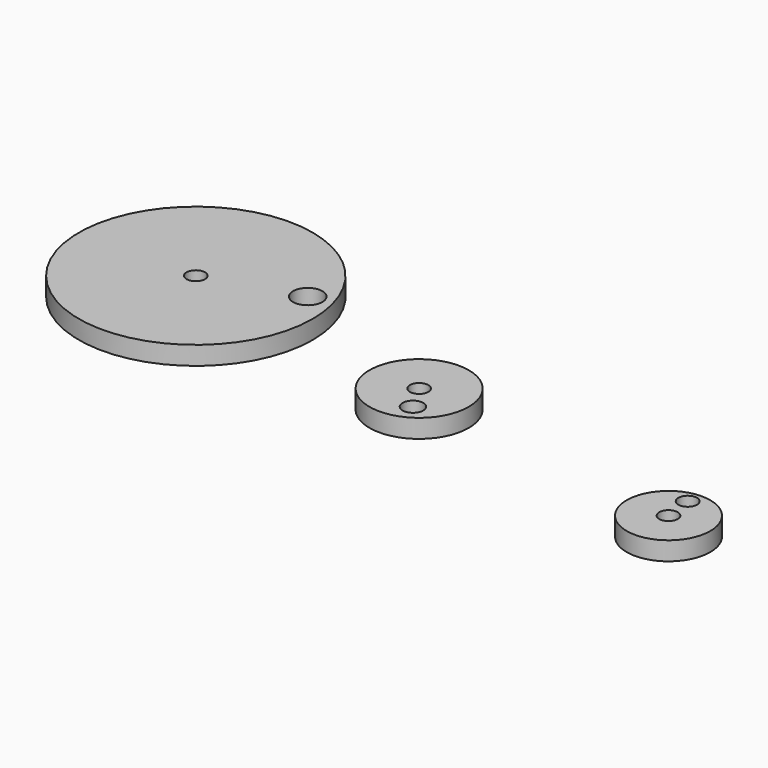
from build123d import *

# Parameters (mm, degrees)
F0_R     = 8.4963
F0_R_2   = 1.769141
F0_R_3   = 1.5875
F0_R_4   = 20.0025
F0_R_5   = 2.515077
F0_R_6   = 7.1501
F0_R_7   = 1.60086
F1_DEPTH = 3.175


with BuildPart() as f1:
    # F0 (on Top) → F1 (new body)
    with BuildSketch(Plane.XY):
        with Locations((-9.492324, 16.42156)):
            Circle(F0_R)
        with Locations((-6.845283, 11.789238)):
            Circle(F0_R_2, mode=Mode.SUBTRACT)
        with Locations((-9.492324, 16.42156)):
            Circle(F0_R_3, mode=Mode.SUBTRACT)
        with Locations((-53.168502, 23.25975)):
            Circle(F0_R_4)
        with Locations((-53.168502, 23.25975)):
            Circle(F0_R_3, mode=Mode.SUBTRACT)
        with Locations((-37.72743, 27.892072)):
            Circle(F0_R_5, mode=Mode.SUBTRACT)
        with Locations((39.496776, 8.515873)):
            Circle(F0_R_6)
        with Locations((39.496776, 8.515873)):
            Circle(F0_R_3, mode=Mode.SUBTRACT)
        with Locations((38.910594, 13.360685)):
            Circle(F0_R_7, mode=Mode.SUBTRACT)
    extrude(amount=F1_DEPTH)


solid = f1.part
